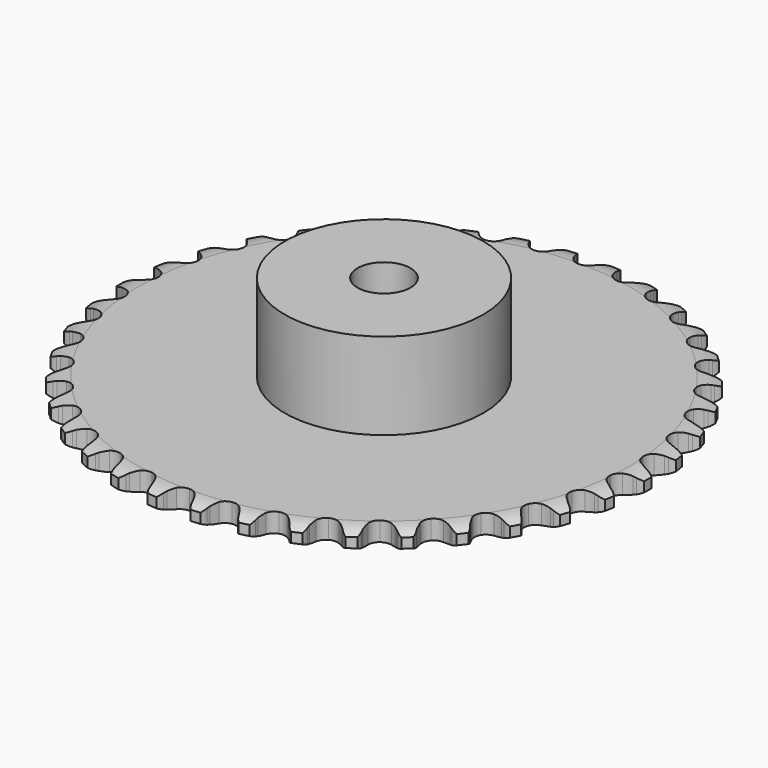
from build123d import *

# Parameters (mm, degrees)
PAD_DEPTH         = 2.9
SKETCH001_R       = 15
PAD001_DEPTH      = 16
SKETCH002_R       = 4
POCKET_DEPTH      = 0.001
POCKET_DEPTH_BACK = 16.001


with BuildPart() as part:
    # Sprocket → Pad (new body)
    with BuildSketch(Plane.XY):
        with BuildLine():
            ThreePointArc((-3.347645, 40.400067), (-2.600107, 39.800922), (-2.114391, 38.975169))
            Line((-2.114391, 38.975169), (-1.953456, 38.534264))
            ThreePointArc((-1.953456, 38.534264), (-1.697475, 37.964261), (-1.362231, 37.436965))
            ThreePointArc((-1.362231, 37.436965), (-0.762481, 36.93254), (0, 36.751521))
            ThreePointArc((0, 36.751521), (0.762481, 36.93254), (1.362231, 37.436965))
            ThreePointArc((1.362231, 37.436965), (1.697475, 37.964261), (1.953456, 38.534264))
            Line((1.953456, 38.534264), (2.114391, 38.975169))
            ThreePointArc((2.114391, 38.975169), (2.600107, 39.800922), (3.347645, 40.400067))
            ThreePointArc((3.347645, 40.400067), (3.986372, 39.686053), (4.329549, 38.791616))
            Line((4.329549, 38.791616), (4.415718, 38.330235))
            ThreePointArc((4.415718, 38.330235), (4.574388, 37.725873), (4.81827, 37.15059))
            ThreePointArc((4.81827, 37.15059), (5.326815, 36.554329), (6.049101, 36.250278))
            ThreePointArc((6.049101, 36.250278), (6.830978, 36.303328), (7.505574, 36.702158))
            Line((7.505574, 36.702158), (8.269344, 37.687179))
            ThreePointArc((8.269344, 37.687179), (8.37947, 37.894512), (8.500655, 38.095581))
            ThreePointArc((8.500655, 38.095581), (9.115661, 38.830126), (9.95162, 39.298058))
            ThreePointArc((9.95162, 39.298058), (10.464112, 38.488651), (10.655389, 37.549928))
            Line((10.655389, 37.549928), (10.664443, 37.080657))
            ThreePointArc((10.664443, 37.080657), (10.721474, 36.458422), (10.867341, 35.850843))
            ThreePointArc((10.867341, 35.850843), (11.270809, 35.17901), (11.933199, 34.760222))
            ThreePointArc((11.933199, 34.760222), (12.713144, 34.683856), (13.444184, 34.966211))
            Line((13.444184, 34.966211), (14.359667, 35.812085))
            ThreePointArc((14.359667, 35.812085), (14.502417, 35.998465), (14.655044, 36.176845))
            ThreePointArc((14.655044, 36.176845), (15.382564, 36.800145), (16.284141, 37.124101))
            ThreePointArc((16.284141, 37.124101), (16.656419, 36.24138), (16.690579, 35.283977))
            Line((16.690579, 35.283977), (16.62227, 34.819616))
            ThreePointArc((16.62227, 34.819616), (16.576106, 34.19648), (16.61998, 33.573178))
            ThreePointArc((16.61998, 33.573178), (16.907364, 32.8441), (17.49179, 32.321998))
            ThreePointArc((17.49179, 32.321998), (18.248528, 32.118299), (19.016072, 32.276478))
            Line((19.016072, 32.276478), (20.058295, 32.960132))
            ThreePointArc((20.058295, 32.960132), (20.229775, 33.120473), (20.409681, 33.271299))
            ThreePointArc((20.409681, 33.271299), (21.229871, 33.766352), (22.172472, 33.937495))
            ThreePointArc((22.172472, 33.937495), (22.394382, 33.005538), (22.270493, 32.05557))
            Line((22.270493, 32.05557), (22.126684, 31.608786))
            ThreePointArc((22.126684, 31.608786), (21.978586, 31.001747), (21.919268, 30.379725))
            ThreePointArc((21.919268, 30.379725), (22.082731, 29.613289), (22.573251, 29.002114))
            ThreePointArc((22.573251, 29.002114), (23.28614, 28.676638), (24.069252, 28.706326))
            Line((24.069252, 28.706326), (25.209786, 29.209111))
            ThreePointArc((25.209786, 29.209111), (25.405318, 29.339041), (25.607596, 29.458199))
            ThreePointArc((25.607596, 29.458199), (26.498082, 29.811501), (27.455997, 29.825163))
            ThreePointArc((27.455997, 29.825163), (27.521485, 28.869392), (27.242926, 27.952772))
            Line((27.242926, 27.952772), (27.02754, 27.535751))
            ThreePointArc((27.02754, 27.535751), (26.781546, 26.961367), (26.620656, 26.357592))
            ThreePointArc((26.620656, 26.357592), (26.655739, 25.574704), (27.038973, 24.891128))
            ThreePointArc((27.038973, 24.891128), (27.688567, 24.452754), (28.465884, 24.353141))
            Line((28.465884, 24.353141), (29.673619, 24.661343))
            ThreePointArc((29.673619, 24.661343), (29.88787, 24.757317), (30.107002, 24.841556))
            ThreePointArc((30.107002, 24.841556), (31.043494, 25.04347), (31.990593, 24.899278))
            ThreePointArc((31.990593, 24.899278), (31.897874, 23.945763), (31.472243, 23.087494))
            Line((31.472243, 23.087494), (31.191155, 22.711612))
            ThreePointArc((31.191155, 22.711612), (30.853976, 22.185552), (30.595903, 21.616493))
            ThreePointArc((30.595903, 21.616493), (30.501647, 20.838508), (30.767141, 20.101177))
            ThreePointArc((30.767141, 20.101177), (31.335722, 19.561862), (32.086042, 19.335665))
            Line((32.086042, 19.335665), (33.328033, 19.440877))
            ThreePointArc((33.328033, 19.440877), (33.555159, 19.500278), (33.785167, 19.5473))
            ThreePointArc((33.785167, 19.5473), (34.742121, 19.592319), (35.65257, 19.294206))
            ThreePointArc((35.65257, 19.294206), (35.404172, 18.368957), (34.843079, 17.59245))
            Line((34.843079, 17.59245), (34.503957, 17.26796))
            ThreePointArc((34.503957, 17.26796), (34.08479, 16.804572), (33.736572, 16.285752))
            ThreePointArc((33.736572, 16.285752), (33.51555, 15.533892), (33.656062, 14.762918))
            ThreePointArc((33.656062, 14.762918), (34.12812, 14.137373), (34.830976, 13.790763))
            Line((34.830976, 13.790763), (36.073345, 13.690115))
            ThreePointArc((36.073345, 13.690115), (36.307151, 13.711322), (36.541761, 13.719844))
            ThreePointArc((36.541761, 13.719844), (37.493074, 13.60674), (38.342037, 13.162838))
            ThreePointArc((38.342037, 13.162838), (37.944736, 12.291093), (37.263487, 11.617529))
            Line((37.263487, 11.617529), (36.875581, 11.353283))
            ThreePointArc((36.875581, 11.353283), (36.385859, 10.965208), (35.956996, 10.510779))
            ThreePointArc((35.956996, 10.510779), (35.615236, 9.805552), (35.626934, 9.021965))
            ThreePointArc((35.626934, 9.021965), (35.989592, 8.327254), (36.625812, 7.869685))
            Line((36.625812, 7.869685), (37.834671, 7.565922))
            ThreePointArc((37.834671, 7.565922), (38.068778, 7.548357), (38.301591, 7.518147))
            ThreePointArc((38.301591, 7.518147), (39.221313, 7.250004), (39.985634, 6.672422))
            ThreePointArc((39.985634, 6.672422), (39.450266, 5.87796), (38.667444, 5.325713))
            Line((38.667444, 5.325713), (38.241335, 5.128918))
            ThreePointArc((38.241335, 5.128918), (37.694417, 4.826741), (37.196607, 4.449098))
            ThreePointArc((37.196607, 4.449098), (36.743432, 3.809741), (36.625996, 3.034917))
            ThreePointArc((36.625996, 3.034917), (36.869362, 2.289989), (37.421591, 1.733942))
            Line((37.421591, 1.733942), (38.563965, 1.235351))
            ThreePointArc((38.563965, 1.235351), (38.791988, 1.179492), (39.016654, 1.111375))
            ThreePointArc((39.016654, 1.111375), (39.879697, 0.695508), (40.538526, 0))
            ThreePointArc((40.538526, 0), (39.879697, -0.695508), (39.016654, -1.111375))
            Line((39.016654, -1.111375), (38.563965, -1.235351))
            ThreePointArc((38.563965, -1.235351), (37.97477, -1.443387), (37.421591, -1.733942))
            ThreePointArc((37.421591, -1.733942), (36.869362, -2.289989), (36.625996, -3.034917))
            ThreePointArc((36.625996, -3.034917), (36.743432, -3.809741), (37.196607, -4.449098))
            Line((37.196607, -4.449098), (38.241335, -5.128918))
            ThreePointArc((38.241335, -5.128918), (38.457054, -5.221546), (38.667444, -5.325713))
            ThreePointArc((38.667444, -5.325713), (39.450266, -5.87796), (39.985634, -6.672422))
            ThreePointArc((39.985634, -6.672422), (39.221313, -7.250004), (38.301591, -7.518147))
            Line((38.301591, -7.518147), (37.834671, -7.565922))
            ThreePointArc((37.834671, -7.565922), (37.21927, -7.674142), (36.625812, -7.869685))
            ThreePointArc((36.625812, -7.869685), (35.989592, -8.327254), (35.626934, -9.021965))
            ThreePointArc((35.626934, -9.021965), (35.615236, -9.805552), (35.956996, -10.510779))
            Line((35.956996, -10.510779), (36.875581, -11.353283))
            ThreePointArc((36.875581, -11.353283), (37.073112, -11.480154), (37.263487, -11.617529))
            ThreePointArc((37.263487, -11.617529), (37.944736, -12.291093), (38.342037, -13.162838))
            ThreePointArc((38.342037, -13.162838), (37.493074, -13.60674), (36.541761, -13.719844))
            Line((36.541761, -13.719844), (36.073345, -13.690115))
            ThreePointArc((36.073345, -13.690115), (35.448526, -13.695568), (34.830976, -13.790763))
            ThreePointArc((34.830976, -13.790763), (34.12812, -14.137373), (33.656062, -14.762918))
            ThreePointArc((33.656062, -14.762918), (33.51555, -15.533892), (33.736572, -16.285752))
            Line((33.736572, -16.285752), (34.503957, -17.26796))
            ThreePointArc((34.503957, -17.26796), (34.677911, -17.425613), (34.843079, -17.59245))
            ThreePointArc((34.843079, -17.59245), (35.404172, -18.368957), (35.65257, -19.294206))
            ThreePointArc((35.65257, -19.294206), (34.742121, -19.592319), (33.785167, -19.5473))
            Line((33.785167, -19.5473), (33.328033, -19.440877))
            ThreePointArc((33.328033, -19.440877), (32.710838, -19.343414), (32.086042, -19.335665))
            ThreePointArc((32.086042, -19.335665), (31.335722, -19.561862), (30.767141, -20.101177))
            ThreePointArc((30.767141, -20.101177), (30.501647, -20.838508), (30.595903, -21.616493))
            Line((30.595903, -21.616493), (31.191155, -22.711612))
            ThreePointArc((31.191155, -22.711612), (31.336788, -22.895747), (31.472243, -23.087494))
            ThreePointArc((31.472243, -23.087494), (31.897874, -23.945763), (31.990593, -24.899278))
            ThreePointArc((31.990593, -24.899278), (31.043494, -25.04347), (30.107002, -24.841556))
            Line((30.107002, -24.841556), (29.673619, -24.661343))
            ThreePointArc((29.673619, -24.661343), (29.080883, -24.463621), (28.465884, -24.353141))
            ThreePointArc((28.465884, -24.353141), (27.688567, -24.452754), (27.038973, -24.891128))
            ThreePointArc((27.038973, -24.891128), (26.655739, -25.574704), (26.620656, -26.357592))
            Line((26.620656, -26.357592), (27.02754, -27.535751))
            ThreePointArc((27.02754, -27.535751), (27.140879, -27.741345), (27.242926, -27.952772))
            ThreePointArc((27.242926, -27.952772), (27.521485, -28.869392), (27.455997, -29.825163))
            ThreePointArc((27.455997, -29.825163), (26.498082, -29.811501), (25.607596, -29.458199))
            Line((25.607596, -29.458199), (25.209786, -29.209111))
            ThreePointArc((25.209786, -29.209111), (24.657678, -28.916526), (24.069252, -28.706326))
            ThreePointArc((24.069252, -28.706326), (23.28614, -28.676638), (22.573251, -29.002114))
            ThreePointArc((22.573251, -29.002114), (22.082731, -29.613289), (21.919268, -30.379725))
            Line((21.919268, -30.379725), (22.126684, -31.608786))
            ThreePointArc((22.126684, -31.608786), (22.204638, -31.830231), (22.270493, -32.05557))
            ThreePointArc((22.270493, -32.05557), (22.394382, -33.005538), (22.172472, -33.937495))
            ThreePointArc((22.172472, -33.937495), (21.229871, -33.766352), (20.409681, -33.271299))
            Line((20.409681, -33.271299), (20.058295, -32.960132))
            ThreePointArc((20.058295, -32.960132), (19.561876, -32.580662), (19.016072, -32.276478))
            ThreePointArc((19.016072, -32.276478), (18.248528, -32.118299), (17.49179, -32.321998))
            ThreePointArc((17.49179, -32.321998), (16.907364, -32.8441), (16.61998, -33.573178))
            Line((16.61998, -33.573178), (16.62227, -34.819616))
            ThreePointArc((16.62227, -34.819616), (16.662712, -35.050871), (16.690579, -35.283977))
            ThreePointArc((16.690579, -35.283977), (16.656419, -36.24138), (16.284141, -37.124101))
            ThreePointArc((16.284141, -37.124101), (15.382564, -36.800145), (14.655044, -36.176845))
            Line((14.655044, -36.176845), (14.359667, -35.812085))
            ThreePointArc((14.359667, -35.812085), (13.932476, -35.356083), (13.444184, -34.966211))
            ThreePointArc((13.444184, -34.966211), (12.713144, -34.683856), (11.933199, -34.760222))
            ThreePointArc((11.933199, -34.760222), (11.270809, -35.17901), (10.867341, -35.850843))
            Line((10.867341, -35.850843), (10.664443, -37.080657))
            ThreePointArc((10.664443, -37.080657), (10.66627, -37.315415), (10.655389, -37.549928))
            ThreePointArc((10.655389, -37.549928), (10.464112, -38.488651), (9.95162, -39.298058))
            ThreePointArc((9.95162, -39.298058), (9.115661, -38.830126), (8.500655, -38.095581))
            Line((8.500655, -38.095581), (8.269344, -37.687179))
            ThreePointArc((8.269344, -37.687179), (7.923036, -37.167083), (7.505574, -36.702158))
            ThreePointArc((7.505574, -36.702158), (6.830978, -36.303328), (6.049101, -36.250278))
            ThreePointArc((6.049101, -36.250278), (5.326815, -36.554329), (4.81827, -37.15059))
            Line((4.81827, -37.15059), (4.415718, -38.330235))
            ThreePointArc((4.415718, -38.330235), (4.37888, -38.562092), (4.329549, -38.791616))
            ThreePointArc((4.329549, -38.791616), (3.986372, -39.686053), (3.347645, -40.400067))
            ThreePointArc((3.347645, -40.400067), (2.600107, -39.800922), (2.114391, -38.975169))
            Line((2.114391, -38.975169), (1.953456, -38.534264))
            ThreePointArc((1.953456, -38.534264), (1.697475, -37.964261), (1.362231, -37.436965))
            ThreePointArc((1.362231, -37.436965), (0.762481, -36.93254), (0, -36.751521))
            ThreePointArc((0, -36.751521), (-0.762481, -36.93254), (-1.362231, -37.436965))
            Line((-1.362231, -37.436965), (-1.953456, -38.534264))
            ThreePointArc((-1.953456, -38.534264), (-2.027953, -38.756896), (-2.114391, -38.975169))
            ThreePointArc((-2.114391, -38.975169), (-2.600107, -39.800922), (-3.347645, -40.400067))
            ThreePointArc((-3.347645, -40.400067), (-3.986372, -39.686053), (-4.329549, -38.791616))
            Line((-4.329549, -38.791616), (-4.415718, -38.330235))
            ThreePointArc((-4.415718, -38.330235), (-4.574388, -37.725873), (-4.81827, -37.15059))
            ThreePointArc((-4.81827, -37.15059), (-5.326815, -36.554329), (-6.049101, -36.250278))
            ThreePointArc((-6.049101, -36.250278), (-6.830978, -36.303328), (-7.505574, -36.702158))
            Line((-7.505574, -36.702158), (-8.269344, -37.687179))
            ThreePointArc((-8.269344, -37.687179), (-8.37947, -37.894512), (-8.500655, -38.095581))
            ThreePointArc((-8.500655, -38.095581), (-9.115661, -38.830126), (-9.95162, -39.298058))
            ThreePointArc((-9.95162, -39.298058), (-10.464112, -38.488651), (-10.655389, -37.549928))
            Line((-10.655389, -37.549928), (-10.664443, -37.080657))
            ThreePointArc((-10.664443, -37.080657), (-10.721474, -36.458422), (-10.867341, -35.850843))
            ThreePointArc((-10.867341, -35.850843), (-11.270809, -35.17901), (-11.933199, -34.760222))
            ThreePointArc((-11.933199, -34.760222), (-12.713144, -34.683856), (-13.444184, -34.966211))
            Line((-13.444184, -34.966211), (-14.359667, -35.812085))
            ThreePointArc((-14.359667, -35.812085), (-14.502417, -35.998465), (-14.655044, -36.176845))
            ThreePointArc((-14.655044, -36.176845), (-15.382564, -36.800145), (-16.284141, -37.124101))
            ThreePointArc((-16.284141, -37.124101), (-16.656419, -36.24138), (-16.690579, -35.283977))
            Line((-16.690579, -35.283977), (-16.62227, -34.819616))
            ThreePointArc((-16.62227, -34.819616), (-16.576106, -34.19648), (-16.61998, -33.573178))
            ThreePointArc((-16.61998, -33.573178), (-16.907364, -32.8441), (-17.49179, -32.321998))
            ThreePointArc((-17.49179, -32.321998), (-18.248528, -32.118299), (-19.016072, -32.276478))
            Line((-19.016072, -32.276478), (-20.058295, -32.960132))
            ThreePointArc((-20.058295, -32.960132), (-20.229775, -33.120473), (-20.409681, -33.271299))
            ThreePointArc((-20.409681, -33.271299), (-21.229871, -33.766352), (-22.172472, -33.937495))
            ThreePointArc((-22.172472, -33.937495), (-22.394382, -33.005538), (-22.270493, -32.05557))
            Line((-22.270493, -32.05557), (-22.126684, -31.608786))
            ThreePointArc((-22.126684, -31.608786), (-21.978586, -31.001747), (-21.919268, -30.379725))
            ThreePointArc((-21.919268, -30.379725), (-22.082731, -29.613289), (-22.573251, -29.002114))
            ThreePointArc((-22.573251, -29.002114), (-23.28614, -28.676638), (-24.069252, -28.706326))
            Line((-24.069252, -28.706326), (-25.209786, -29.209111))
            ThreePointArc((-25.209786, -29.209111), (-25.405318, -29.339041), (-25.607596, -29.458199))
            ThreePointArc((-25.607596, -29.458199), (-26.498082, -29.811501), (-27.455997, -29.825163))
            ThreePointArc((-27.455997, -29.825163), (-27.521485, -28.869392), (-27.242926, -27.952772))
            Line((-27.242926, -27.952772), (-27.02754, -27.535751))
            ThreePointArc((-27.02754, -27.535751), (-26.781546, -26.961367), (-26.620656, -26.357592))
            ThreePointArc((-26.620656, -26.357592), (-26.655739, -25.574704), (-27.038973, -24.891128))
            ThreePointArc((-27.038973, -24.891128), (-27.688567, -24.452754), (-28.465884, -24.353141))
            Line((-28.465884, -24.353141), (-29.673619, -24.661343))
            ThreePointArc((-29.673619, -24.661343), (-29.88787, -24.757317), (-30.107002, -24.841556))
            ThreePointArc((-30.107002, -24.841556), (-31.043494, -25.04347), (-31.990593, -24.899278))
            ThreePointArc((-31.990593, -24.899278), (-31.897874, -23.945763), (-31.472243, -23.087494))
            Line((-31.472243, -23.087494), (-31.191155, -22.711612))
            ThreePointArc((-31.191155, -22.711612), (-30.853976, -22.185552), (-30.595903, -21.616493))
            ThreePointArc((-30.595903, -21.616493), (-30.501647, -20.838508), (-30.767141, -20.101177))
            ThreePointArc((-30.767141, -20.101177), (-31.335722, -19.561862), (-32.086042, -19.335665))
            Line((-32.086042, -19.335665), (-33.328033, -19.440877))
            ThreePointArc((-33.328033, -19.440877), (-33.555159, -19.500278), (-33.785167, -19.5473))
            ThreePointArc((-33.785167, -19.5473), (-34.742121, -19.592319), (-35.65257, -19.294206))
            ThreePointArc((-35.65257, -19.294206), (-35.404172, -18.368957), (-34.843079, -17.59245))
            Line((-34.843079, -17.59245), (-34.503957, -17.26796))
            ThreePointArc((-34.503957, -17.26796), (-34.08479, -16.804572), (-33.736572, -16.285752))
            ThreePointArc((-33.736572, -16.285752), (-33.51555, -15.533892), (-33.656062, -14.762918))
            ThreePointArc((-33.656062, -14.762918), (-34.12812, -14.137373), (-34.830976, -13.790763))
            Line((-34.830976, -13.790763), (-36.073345, -13.690115))
            ThreePointArc((-36.073345, -13.690115), (-36.307151, -13.711322), (-36.541761, -13.719844))
            ThreePointArc((-36.541761, -13.719844), (-37.493074, -13.60674), (-38.342037, -13.162838))
            ThreePointArc((-38.342037, -13.162838), (-37.944736, -12.291093), (-37.263487, -11.617529))
            Line((-37.263487, -11.617529), (-36.875581, -11.353283))
            ThreePointArc((-36.875581, -11.353283), (-36.385859, -10.965208), (-35.956996, -10.510779))
            ThreePointArc((-35.956996, -10.510779), (-35.615236, -9.805552), (-35.626934, -9.021965))
            ThreePointArc((-35.626934, -9.021965), (-35.989592, -8.327254), (-36.625812, -7.869685))
            Line((-36.625812, -7.869685), (-37.834671, -7.565922))
            ThreePointArc((-37.834671, -7.565922), (-38.068778, -7.548357), (-38.301591, -7.518147))
            ThreePointArc((-38.301591, -7.518147), (-39.221313, -7.250004), (-39.985634, -6.672422))
            ThreePointArc((-39.985634, -6.672422), (-39.450266, -5.87796), (-38.667444, -5.325713))
            Line((-38.667444, -5.325713), (-38.241335, -5.128918))
            ThreePointArc((-38.241335, -5.128918), (-37.694417, -4.826741), (-37.196607, -4.449098))
            ThreePointArc((-37.196607, -4.449098), (-36.743432, -3.809741), (-36.625996, -3.034917))
            ThreePointArc((-36.625996, -3.034917), (-36.869362, -2.289989), (-37.421591, -1.733942))
            Line((-37.421591, -1.733942), (-38.563965, -1.235351))
            ThreePointArc((-38.563965, -1.235351), (-38.791988, -1.179492), (-39.016654, -1.111375))
            ThreePointArc((-39.016654, -1.111375), (-39.879697, -0.695508), (-40.538526, 0))
            ThreePointArc((-40.538526, 0), (-39.879697, 0.695508), (-39.016654, 1.111375))
            Line((-39.016654, 1.111375), (-38.563965, 1.235351))
            ThreePointArc((-38.563965, 1.235351), (-37.97477, 1.443387), (-37.421591, 1.733942))
            ThreePointArc((-37.421591, 1.733942), (-36.869362, 2.289989), (-36.625996, 3.034917))
            ThreePointArc((-36.625996, 3.034917), (-36.743432, 3.809741), (-37.196607, 4.449098))
            Line((-37.196607, 4.449098), (-38.241335, 5.128918))
            ThreePointArc((-38.241335, 5.128918), (-38.457054, 5.221546), (-38.667444, 5.325713))
            ThreePointArc((-38.667444, 5.325713), (-39.450266, 5.87796), (-39.985634, 6.672422))
            ThreePointArc((-39.985634, 6.672422), (-39.221313, 7.250004), (-38.301591, 7.518147))
            Line((-38.301591, 7.518147), (-37.834671, 7.565922))
            ThreePointArc((-37.834671, 7.565922), (-37.21927, 7.674142), (-36.625812, 7.869685))
            ThreePointArc((-36.625812, 7.869685), (-35.989592, 8.327254), (-35.626934, 9.021965))
            ThreePointArc((-35.626934, 9.021965), (-35.615236, 9.805552), (-35.956996, 10.510779))
            Line((-35.956996, 10.510779), (-36.875581, 11.353283))
            ThreePointArc((-36.875581, 11.353283), (-37.073112, 11.480154), (-37.263487, 11.617529))
            ThreePointArc((-37.263487, 11.617529), (-37.944736, 12.291093), (-38.342037, 13.162838))
            ThreePointArc((-38.342037, 13.162838), (-37.493074, 13.60674), (-36.541761, 13.719844))
            Line((-36.541761, 13.719844), (-36.073345, 13.690115))
            ThreePointArc((-36.073345, 13.690115), (-35.448526, 13.695568), (-34.830976, 13.790763))
            ThreePointArc((-34.830976, 13.790763), (-34.12812, 14.137373), (-33.656062, 14.762918))
            ThreePointArc((-33.656062, 14.762918), (-33.51555, 15.533892), (-33.736572, 16.285752))
            Line((-33.736572, 16.285752), (-34.503957, 17.26796))
            ThreePointArc((-34.503957, 17.26796), (-34.677911, 17.425613), (-34.843079, 17.59245))
            ThreePointArc((-34.843079, 17.59245), (-35.404172, 18.368957), (-35.65257, 19.294206))
            ThreePointArc((-35.65257, 19.294206), (-34.742121, 19.592319), (-33.785167, 19.5473))
            Line((-33.785167, 19.5473), (-33.328033, 19.440877))
            ThreePointArc((-33.328033, 19.440877), (-32.710838, 19.343414), (-32.086042, 19.335665))
            ThreePointArc((-32.086042, 19.335665), (-31.335722, 19.561862), (-30.767141, 20.101177))
            ThreePointArc((-30.767141, 20.101177), (-30.501647, 20.838508), (-30.595903, 21.616493))
            Line((-30.595903, 21.616493), (-31.191155, 22.711612))
            ThreePointArc((-31.191155, 22.711612), (-31.336788, 22.895747), (-31.472243, 23.087494))
            ThreePointArc((-31.472243, 23.087494), (-31.897874, 23.945763), (-31.990593, 24.899278))
            ThreePointArc((-31.990593, 24.899278), (-31.043494, 25.04347), (-30.107002, 24.841556))
            Line((-30.107002, 24.841556), (-29.673619, 24.661343))
            ThreePointArc((-29.673619, 24.661343), (-29.080883, 24.463621), (-28.465884, 24.353141))
            ThreePointArc((-28.465884, 24.353141), (-27.688567, 24.452754), (-27.038973, 24.891128))
            ThreePointArc((-27.038973, 24.891128), (-26.655739, 25.574704), (-26.620656, 26.357592))
            Line((-26.620656, 26.357592), (-27.02754, 27.535751))
            ThreePointArc((-27.02754, 27.535751), (-27.140879, 27.741345), (-27.242926, 27.952772))
            ThreePointArc((-27.242926, 27.952772), (-27.521485, 28.869392), (-27.455997, 29.825163))
            ThreePointArc((-27.455997, 29.825163), (-26.498082, 29.811501), (-25.607596, 29.458199))
            Line((-25.607596, 29.458199), (-25.209786, 29.209111))
            ThreePointArc((-25.209786, 29.209111), (-24.657678, 28.916526), (-24.069252, 28.706326))
            ThreePointArc((-24.069252, 28.706326), (-23.28614, 28.676638), (-22.573251, 29.002114))
            ThreePointArc((-22.573251, 29.002114), (-22.082731, 29.613289), (-21.919268, 30.379725))
            Line((-21.919268, 30.379725), (-22.126684, 31.608786))
            ThreePointArc((-22.126684, 31.608786), (-22.204638, 31.830231), (-22.270493, 32.05557))
            ThreePointArc((-22.270493, 32.05557), (-22.394382, 33.005538), (-22.172472, 33.937495))
            ThreePointArc((-22.172472, 33.937495), (-21.229871, 33.766352), (-20.409681, 33.271299))
            Line((-20.409681, 33.271299), (-20.058295, 32.960132))
            ThreePointArc((-20.058295, 32.960132), (-19.561876, 32.580662), (-19.016072, 32.276478))
            ThreePointArc((-19.016072, 32.276478), (-18.248528, 32.118299), (-17.49179, 32.321998))
            ThreePointArc((-17.49179, 32.321998), (-16.907364, 32.8441), (-16.61998, 33.573178))
            Line((-16.61998, 33.573178), (-16.62227, 34.819616))
            ThreePointArc((-16.62227, 34.819616), (-16.662712, 35.050871), (-16.690579, 35.283977))
            ThreePointArc((-16.690579, 35.283977), (-16.656419, 36.24138), (-16.284141, 37.124101))
            ThreePointArc((-16.284141, 37.124101), (-15.382564, 36.800145), (-14.655044, 36.176845))
            Line((-14.655044, 36.176845), (-14.359667, 35.812085))
            ThreePointArc((-14.359667, 35.812085), (-13.932476, 35.356083), (-13.444184, 34.966211))
            ThreePointArc((-13.444184, 34.966211), (-12.713144, 34.683856), (-11.933199, 34.760222))
            ThreePointArc((-11.933199, 34.760222), (-11.270809, 35.17901), (-10.867341, 35.850843))
            Line((-10.867341, 35.850843), (-10.664443, 37.080657))
            ThreePointArc((-10.664443, 37.080657), (-10.66627, 37.315415), (-10.655389, 37.549928))
            ThreePointArc((-10.655389, 37.549928), (-10.464112, 38.488651), (-9.95162, 39.298058))
            ThreePointArc((-9.95162, 39.298058), (-9.115661, 38.830126), (-8.500655, 38.095581))
            Line((-8.500655, 38.095581), (-8.269344, 37.687179))
            ThreePointArc((-8.269344, 37.687179), (-7.923036, 37.167083), (-7.505574, 36.702158))
            ThreePointArc((-7.505574, 36.702158), (-6.830978, 36.303328), (-6.049101, 36.250278))
            ThreePointArc((-6.049101, 36.250278), (-5.326815, 36.554329), (-4.81827, 37.15059))
            Line((-4.81827, 37.15059), (-4.415718, 38.330235))
            ThreePointArc((-4.415718, 38.330235), (-4.37888, 38.562092), (-4.329549, 38.791616))
            ThreePointArc((-4.329549, 38.791616), (-3.986372, 39.686053), (-3.347645, 40.400067))
        make_face()
    extrude(amount=PAD_DEPTH)

    # Sketch → Groove (revolve, cut)
    with BuildSketch(Plane.XZ):
        with BuildLine():
            Line((36.939674, 0), (39.85, 0))
            Line((42.760326, 0), (39.85, 0))
            Line((42.760326, 2.9), (42.760326, 0))
            Line((39.85, 2.9), (42.760326, 2.9))
            Line((36.939674, 2.9), (39.85, 2.9))
            ThreePointArc((39.85, 2.2), (38.436337, 2.72254), (36.939674, 2.9))
            Line((39.85, 0.7), (39.85, 2.2))
            ThreePointArc((36.939674, 0), (38.436337, 0.17746), (39.85, 0.7))
        make_face()
    revolve(axis=Axis((0, 0, 0), (0, 0, 1)), mode=Mode.SUBTRACT)

    # Sketch001 → Pad001 (join)
    with BuildSketch(Plane.XY):
        Circle(SKETCH001_R)
    extrude(amount=PAD001_DEPTH)

    # Sketch002 → Pocket (cut, two sides)
    with BuildSketch(Plane.XY) as pocket_sk:
        Circle(SKETCH002_R)
    extrude(amount=-POCKET_DEPTH, mode=Mode.SUBTRACT)
    extrude(pocket_sk.sketch, amount=POCKET_DEPTH_BACK, mode=Mode.SUBTRACT)


solid = part.part
